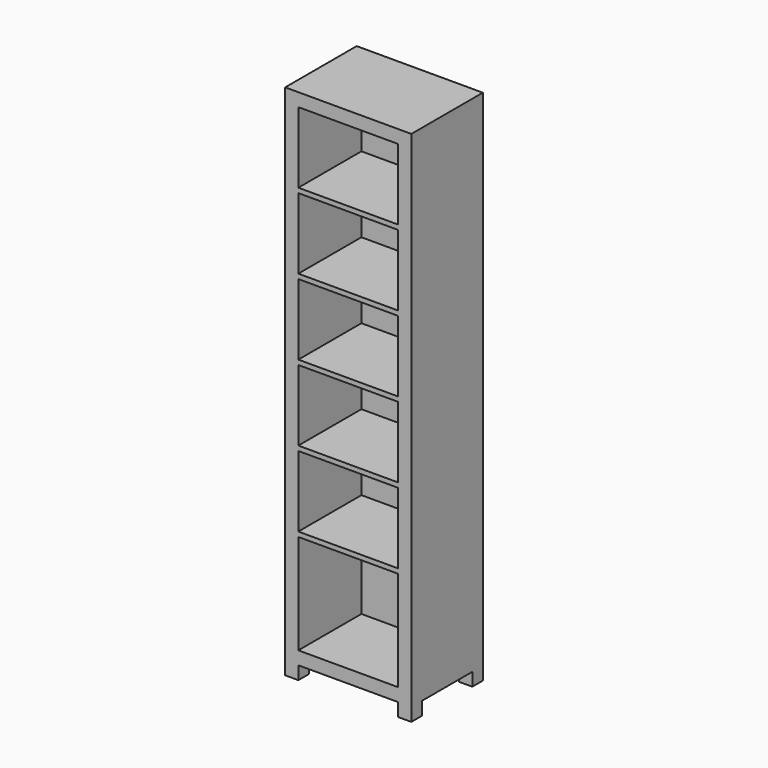
from build123d import *

# Parameters (mm, degrees)
F0_W     = 480
F0_H     = 340
F1_DEPTH = 1970
F2_W     = 380
F2_H     = 50
F3_DEPTH = 350
F2_H_2   = 380
F2_H_3   = 270
F4_DEPTH = 300
F5_W     = 240
F5_H     = 50
F6_DEPTH = 895


with BuildPart() as f1:
    # F0 (on Top) → F1 (new body)
    with BuildSketch(Plane.XY):
        with Locations((-240, 170)):
            Rectangle(F0_W, F0_H)
    extrude(amount=F1_DEPTH)

    # F2 (on face) → F3 (cut)
    with BuildSketch(Plane.XZ):
        with Locations((-240, 25)):
            Rectangle(F2_W, F2_H)
    extrude(amount=-F3_DEPTH, mode=Mode.SUBTRACT)

    # F2 (on face) → F4 (cut)
    with BuildSketch(Plane.XZ):
        with Locations((-240, 290)):
            Rectangle(F2_W, F2_H_2)
        with Locations((-240, 633)):
            Rectangle(F2_W, F2_H_3)
        with Locations((-240, 921)):
            Rectangle(F2_W, F2_H_3)
        with Locations((-240, 1209)):
            Rectangle(F2_W, F2_H_3)
        with Locations((-240, 1497)):
            Rectangle(F2_W, F2_H_3)
        with Locations((-240, 1785)):
            Rectangle(F2_W, F2_H_3)
    extrude(amount=-F4_DEPTH, mode=Mode.SUBTRACT)

    # F5 (on face) → F6 (cut)
    with BuildSketch(Plane(origin=(-480, 0, 0), x_dir=(0, -1, 0), z_dir=(-1, 0, 0))):
        with Locations((-170, 25)):
            Rectangle(F5_W, F5_H)
    extrude(amount=-F6_DEPTH, mode=Mode.SUBTRACT)


solid = f1.part
